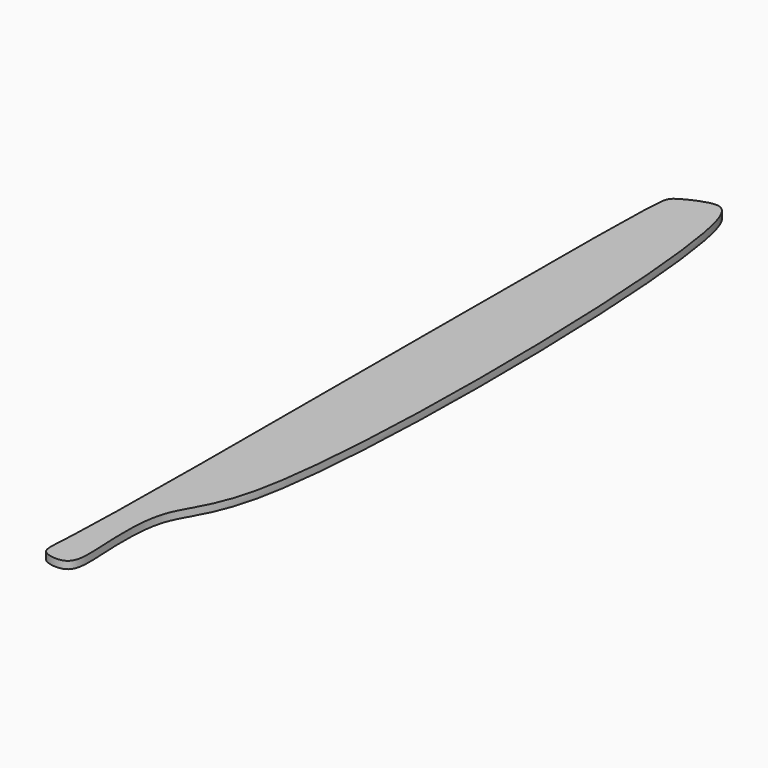
from build123d import *

# Parameters (mm, degrees)
F1_DEPTH = 1


with BuildPart() as f1:
    # F0 (on Top) → F1 (new body)
    with BuildSketch(Plane.XY):
        with BuildLine():
            add(Edge.make_bspline(
                [(-46.7077493668, -48.9260554314), (-45.9324920189, -33.0834601218), (-46.7078205416, 48.3002130875), (-45.5365911118, 50.7723172577), (-41.3172512576, 52.8140195927), (-35.4345208298, 51.4305354974), (-33.8155074316, -31.2472210663), (-43.2883221097, -37.637767082), (-42.7995863611, -48.7560380941), (-42.4800068838, -54.5581444311), (-47.3155683212, -54.0118767899), (-46.8830723054, -52.5088274922), (-46.7077493668, -48.9260554314)],
                knots=[0, 0, 0, 0, 0.2667843787, 0.3146460444, 0.367166649, 0.4167973887, 0.6571618195, 0.7508486676, 0.8360132108, 0.8950344432, 0.9396672326, 1, 1, 1, 1], degree=3))
        make_face()
    extrude(amount=F1_DEPTH)


solid = f1.part
